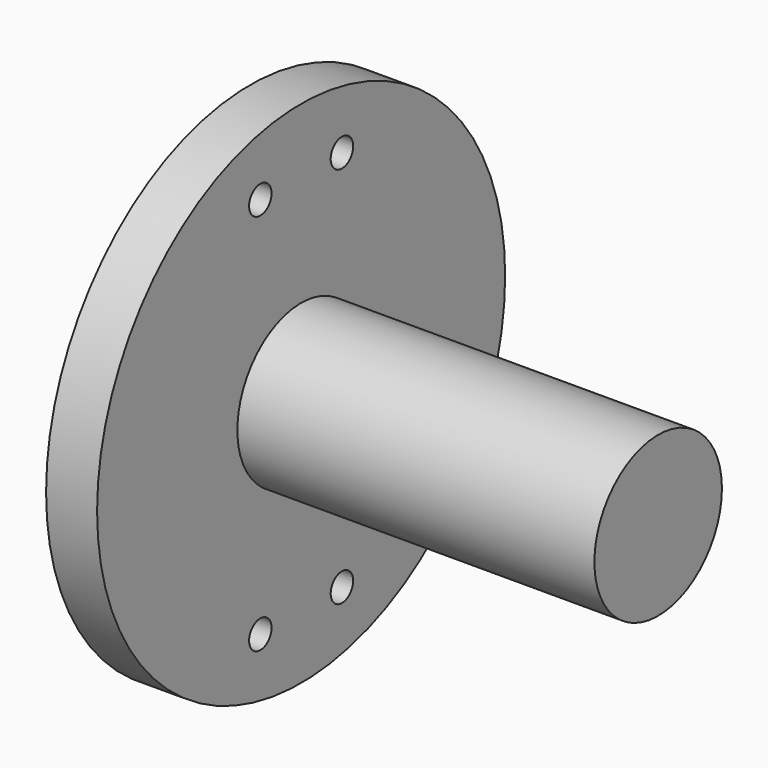
from build123d import *

# Parameters (mm, degrees)
SKETCH023_R     = 20
PAD008_DEPTH    = 4
SKETCH024_R     = 1.1
POCKET008_DEPTH = 5
SKETCH025_R     = 6.25
PAD009_DEPTH    = 28


with BuildPart() as part:
    # Sketch023 → Pad008 (new body)
    with BuildSketch(Plane.YZ):
        Circle(SKETCH023_R)
    extrude(amount=PAD008_DEPTH)

    # Sketch024 (on Face3 of Pad008) → Pocket008 (cut)
    with BuildSketch(Plane.YZ.offset(4)):
        with Locations((-4, 15)):
            Circle(SKETCH024_R)
        with Locations((4, 15)):
            Circle(SKETCH024_R)
        with Locations((-4, -15)):
            Circle(SKETCH024_R)
        with Locations((4, -15)):
            Circle(SKETCH024_R)
    extrude(amount=-POCKET008_DEPTH, mode=Mode.SUBTRACT)

    # Sketch025 (on Face3 of Pocket008) → Pad009 (join)
    with BuildSketch(Plane.YZ.offset(4)):
        Circle(SKETCH025_R)
    extrude(amount=PAD009_DEPTH)


with BuildPart() as part_1:
    # Body003 placement: moved
    add(part.part.moved(Location((28, 0, 65))))


solid = part_1.part
